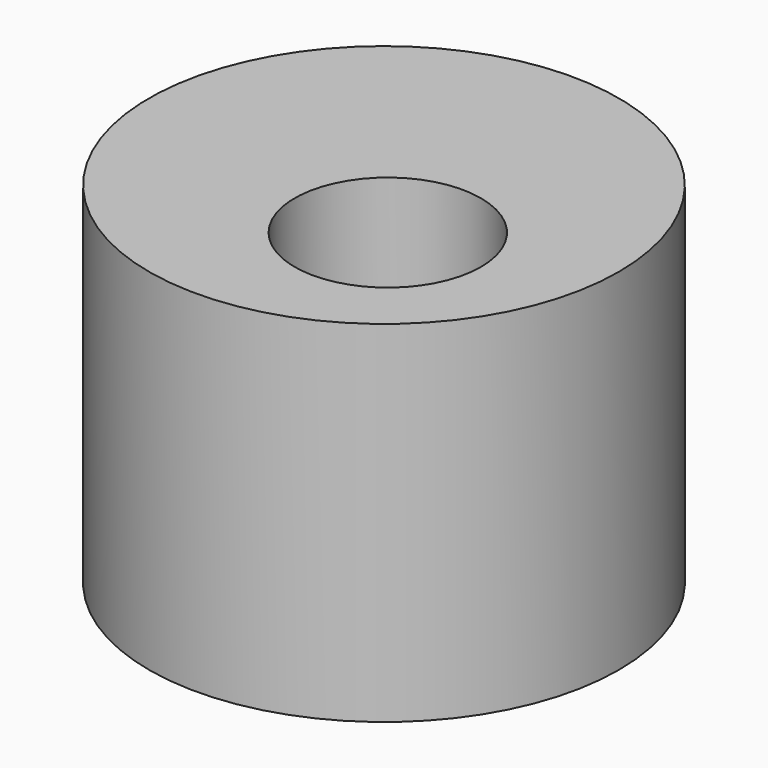
from build123d import *

# Parameters (mm, degrees)
F0_R      = 50.233177
F1_DEPTH  = 100.33
F1_FACE_R = 50.233177
F2_DEPTH  = 25.4
F3_R      = 19.910889
F4_DEPTH  = 258.826


with BuildPart() as f1:
    # F0 (on Top) → F1 (new body)
    with BuildSketch(Plane.XY):
        Circle(F0_R)
    extrude(amount=F1_DEPTH)

    # F1_face (on face) → F2 (cut)
    with BuildSketch(Plane.XY.offset(100.33)):
        Circle(F1_FACE_R)
    extrude(amount=-F2_DEPTH, mode=Mode.SUBTRACT)

    # F3 (on face) → F4 (cut)
    with BuildSketch(Plane.XY.offset(74.93)):
        with Locations((11.237776, -13.026105)):
            Circle(F3_R)
    extrude(amount=-F4_DEPTH, mode=Mode.SUBTRACT)


solid = f1.part
